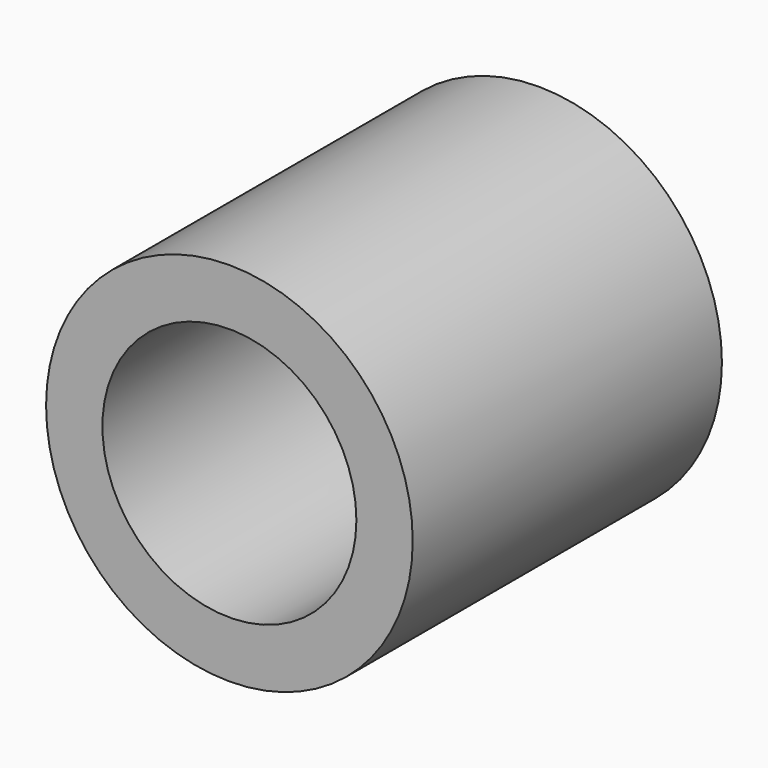
from build123d import *

# Parameters (mm, degrees)
F0_R          = 25
F0_R_2        = 11.5
F1_DEPTH      = 17.5
F1_DEPTH_BACK = 17.5
F0_R_3        = 5
F2_DEPTH      = 6
F3_DEPTH      = 6
F4_R          = 8.4
F6_DEPTH      = 83.1


with BuildPart() as f1:
    # F0 (on Front) → F1 (new body, two sides)
    with BuildSketch(Plane.XZ) as f1_sk:
        Circle(F0_R)
        Circle(F0_R_2, mode=Mode.SUBTRACT)
    extrude(amount=F1_DEPTH)
    extrude(f1_sk.sketch, amount=-F1_DEPTH_BACK)

    # F0 (on Front) → F2 (join)
    with BuildSketch(Plane.XZ):
        Circle(F0_R_2)
        Circle(F0_R_3, mode=Mode.SUBTRACT)
    extrude(amount=F2_DEPTH)

    # F0 (on Front) → F3 (join)
    with BuildSketch(Plane.XZ):
        Circle(F0_R_2)
        Circle(F0_R_3, mode=Mode.SUBTRACT)
    extrude(amount=-F3_DEPTH)

    # F4
    f4_edges = [f1.edges().sort_by_distance(p)[0] for p in [
        (-25, -17.5, 0),
        (-25, 17.5, 0),
    ]]
    fillet(f4_edges, radius=F4_R)

    # F6 (intersect): a face of the model
    f6_faces = [f1.faces().sort_by_distance(p)[0] for p in [
        (-16.1304810973, 17.5, 0),
    ]]
    extrude(f6_faces, amount=-F6_DEPTH, mode=Mode.INTERSECT)


solid = f1.part
